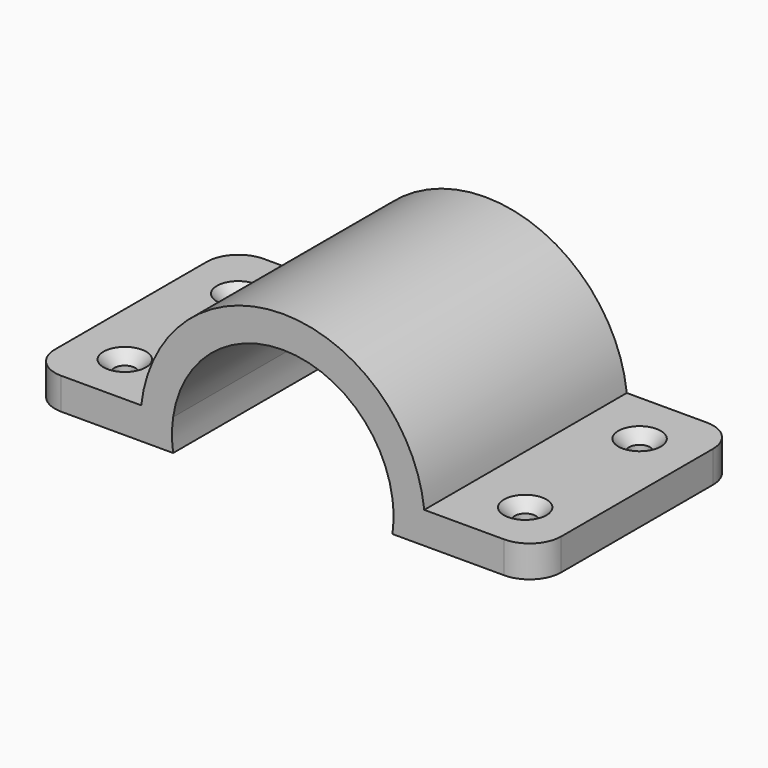
from build123d import *

# Parameters (mm, degrees)
F1_DEPTH       = 40
F2_R           = 5
F4_D           = 3.3
F4_DEPTH       = 13.5
F4_CSINK_D     = 6.72
F4_CSINK_ANGLE = 90
F4_TIP         = 0.9914200214


with BuildPart() as f1:
    # F0 (on Front) → F1 (new body)
    with BuildSketch(Plane.XZ):
        with BuildLine():
            Line((-40, -2.5), (-22.360679775, -2.5))
            ThreePointArc((-22.360679775, -2.5), (-22.5, 0), (-22.360679775, 2.5))
            Line((-22.360679775, 2.5), (-40, 2.5))
            Line((-40, 2.5), (-40, -2.5))
        make_face()
        with BuildLine():
            ThreePointArc((-22.360679775, 2.5), (-22.5, 0), (-22.360679775, -2.5))
            Line((-22.360679775, -2.5), (-17.3205080757, -2.5))
            ThreePointArc((-17.3205080757, -2.5), (-17.5, 0), (-17.3205080757, 2.5))
            Line((-17.3205080757, 2.5), (-22.360679775, 2.5))
        make_face()
        with BuildLine():
            Line((17.3205080757, 2.5), (22.360679775, 2.5))
            ThreePointArc((22.360679775, 2.5), (0, 22.5), (-22.360679775, 2.5))
            Line((-22.360679775, 2.5), (-17.3205080757, 2.5))
            ThreePointArc((-17.3205080757, 2.5), (0, 17.5), (17.3205080757, 2.5))
        make_face()
        with BuildLine():
            Line((17.3205080757, -2.5), (22.360679775, -2.5))
            ThreePointArc((22.360679775, -2.5), (22.4651429434, -1.2519395078), (22.5, 0))
            ThreePointArc((22.5, 0), (22.4651429434, 1.2519395078), (22.360679775, 2.5))
            Line((22.360679775, 2.5), (17.3205080757, 2.5))
            ThreePointArc((17.3205080757, 2.5), (17.4550693399, 1.2532175939), (17.5, 0))
            ThreePointArc((17.5, 0), (17.4550693399, -1.2532175939), (17.3205080757, -2.5))
        make_face()
        with BuildLine():
            Line((22.360679775, -2.5), (40, -2.5))
            Line((40, -2.5), (40, 2.5))
            Line((40, 2.5), (22.360679775, 2.5))
            ThreePointArc((22.360679775, 2.5), (22.4651429434, 1.2519395078), (22.5, 0))
            ThreePointArc((22.5, 0), (22.4651429434, -1.2519395078), (22.360679775, -2.5))
        make_face()
    extrude(amount=F1_DEPTH)

    # F2
    f2_edges = [f1.edges().sort_by_distance(p)[0] for p in [
        (-40, -40, 0),
        (-40, 0, 0),
        (40, -40, 0),
        (40, 0, 0),
    ]]
    fillet(f2_edges, radius=F2_R)

    # F4
    with Locations(Plane.XY.offset(2.5)):
        with Locations((-31.6543355584, -9.2338668182), (-31.5996408463, -31.6989757121), (31.2322638929, -8.5554420948), (31.6695906222, -31.6989757121)):
            CounterSinkHole(F4_D / 2, F4_CSINK_D / 2, depth=F4_DEPTH, counter_sink_angle=F4_CSINK_ANGLE)
            with Locations((0, 0, -(F4_DEPTH + F4_TIP / 2))):  # 118° drill point
                Cone(0, F4_D / 2, F4_TIP, mode=Mode.SUBTRACT)


solid = f1.part
